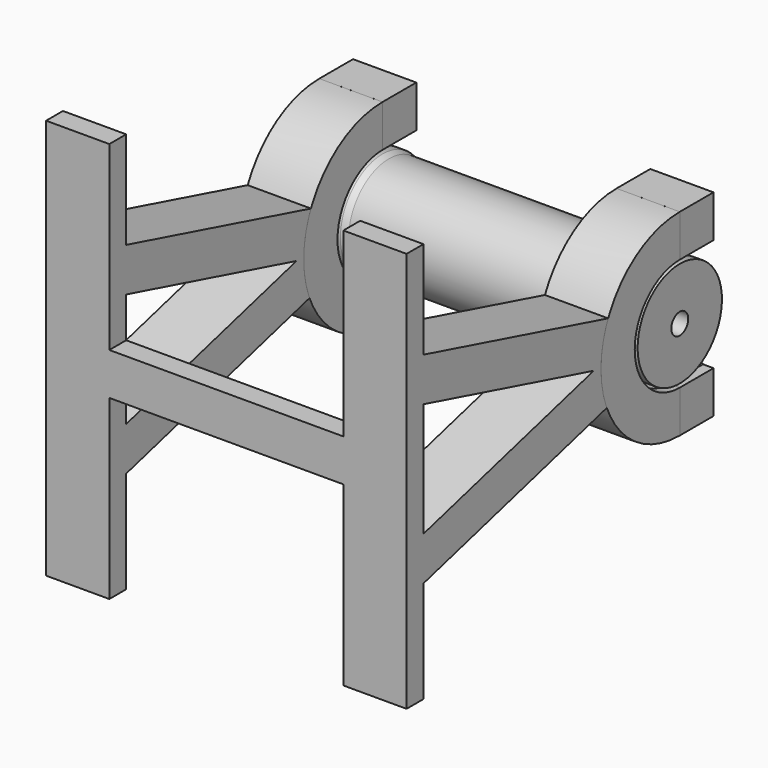
from build123d import *

# Parameters (mm, degrees)
BOX009_W                = 30
BOX009_H                = 10
BOX009_DEPTH            = 190
BOX004_W                = 30
BOX004_H                = 10
BOX004_DEPTH            = 190
BOX011_W                = 130
BOX011_H                = 10
BOX011_DEPTH            = 20
BOX018_W                = 40
BOX018_H                = 20
BOX018_DEPTH            = 220
BOX017_W                = 30
BOX017_H                = 140
BOX017_DEPTH            = 20
BOX017_PLACEMENT_ANGLE  = 15
BOX016_W                = 30
BOX016_H                = 140
BOX016_DEPTH            = 20
BOX016_PLACEMENT_ANGLE  = 15
PAD006_DEPTH            = 20
BODY011_PLACEMENT_ANGLE = 180
REVOLUTION004_ANGLE     = 180
PAD007_DEPTH            = 20
BOX015_W                = 40
BOX015_H                = 20
BOX015_DEPTH            = 220
BOX014_W                = 30
BOX014_H                = 140
BOX014_DEPTH            = 20
BOX014_PLACEMENT_ANGLE  = 15
BOX013_W                = 30
BOX013_H                = 140
BOX013_DEPTH            = 20
BOX013_PLACEMENT_ANGLE  = 15
PAD004_DEPTH            = 20
BODY008_PLACEMENT_ANGLE = 180
REVOLUTION003_ANGLE     = 180
PAD005_DEPTH            = 20


with BuildPart() as inner:
    # Sketch → Revolution (revolve)
    with BuildSketch(Plane.XZ):
        Polygon((-52.5, 24), (52.5, 24), (55.5, 25), (60.5, 25), (70.5, 15), (80.5, 25), (85.5, 25), (85.5, 5), (-85.5, 5), (-85.5, 25), (-80.5, 25), (-70.5, 15), (-60.5, 25), (-55.5, 25), align=None)
    revolve(axis=Axis((0, 0, 0), (1, 0, 0)))


with BuildPart() as cube009:
    # Box009 → Box009 (new body)
    with BuildSketch(Plane(origin=(55.5, -173, -95), x_dir=(1, 0, 0), z_dir=(0, 0, 1))):
        with Locations((15, 5)):
            Rectangle(BOX009_W, BOX009_H)
    extrude(amount=BOX009_DEPTH)


with BuildPart() as cube004:
    # Box004 → Box004 (new body)
    with BuildSketch(Plane(origin=(-85.5, -173, -95), x_dir=(1, 0, 0), z_dir=(0, 0, 1))):
        with Locations((15, 5)):
            Rectangle(BOX004_W, BOX004_H)
    extrude(amount=BOX004_DEPTH)


with BuildPart() as fusion:
    # Box011 → Box011 (new body)
    with BuildSketch(Plane(origin=(-63, -173, -11), x_dir=(1, 0, 0), z_dir=(0, 0, 1))):
        with Locations((65, 5)):
            Rectangle(BOX011_W, BOX011_H)
    extrude(amount=BOX011_DEPTH)

    # Fusion: union Cube009, Cube004
    add(cube009.part)
    add(cube004.part)


with BuildPart() as fusion_1:
    # Fusion placement: moved
    add(fusion.part.moved(Location((0, 11, 0))))


with BuildPart() as cube018:
    # Box018 → Box018 (new body)
    with BuildSketch(Plane(origin=(-94, -173, -109), x_dir=(1, 0, 0), z_dir=(0, 0, 1))):
        with Locations((20, 10)):
            Rectangle(BOX018_W, BOX018_H)
    extrude(amount=BOX018_DEPTH)


with BuildPart() as cube017:
    # Box017 → Box017 (new body)
    with BuildSketch(Plane.XY):
        with Locations((15, 70)):
            Rectangle(BOX017_W, BOX017_H)
    extrude(amount=BOX017_DEPTH)


with BuildPart() as cube017_1:
    # Box017 placement: moved
    add(cube017.part.moved(Location((-85.5, -167.262928, -50.786773))).rotate(Axis((-85.5, -167.262928, -50.786773), (1, 0, 0)), BOX017_PLACEMENT_ANGLE))


with BuildPart() as cube016:
    # Box016 → Box016 (new body)
    with BuildSketch(Plane.XY):
        with Locations((15, 70)):
            Rectangle(BOX016_W, BOX016_H)
    extrude(amount=BOX016_DEPTH)


with BuildPart() as cube016_1:
    # Box016 placement: moved
    add(cube016.part.moved(Location((-85.5, -171.292547, 33.2952))).rotate(Axis((-85.5, -171.292547, 33.2952), (-1, 0, 0)), BOX016_PLACEMENT_ANGLE))


with BuildPart() as body011:
    # Sketch011 → Pad006 (new body)
    with BuildSketch(Plane.XZ):
        Polygon((-160.153853, 40.532615), (-130.153853, 40.532615), (-130.153853, 20.532615), (-135.153853, 20.532615), (-145.153853, 10.532615), (-155.153853, 20.532615), (-160.153853, 20.532615), align=None)
    extrude(amount=PAD006_DEPTH)


with BuildPart() as body011_1:
    # Body011 placement: moved
    add(body011.part.moved(Location((-215.65, 20, -6.18))).rotate(Axis((-215.65, 20, -6.18), (0, 1, 0)), BODY011_PLACEMENT_ANGLE))


with BuildPart() as fusion017:
    # Sketch010 → Revolution004 (revolve)
    with BuildSketch(Plane.XZ):
        Polygon((-85.499998, 26.708255), (-80.499998, 26.708255), (-70.499998, 16.708255), (-60.499998, 26.708255), (-55.499998, 26.708255), (-55.499998, 46.708255), (-85.499998, 46.708255), align=None)
    revolve(axis=Axis((0, 0, 0), (1, 0, 0)), revolution_arc=REVOLUTION004_ANGLE)

    # Fusion017: union Body011
    add(body011_1.part)


with BuildPart() as cut002:
    # Sketch012 → Pad007 (new body)
    with BuildSketch(Plane.XZ):
        Polygon((-160.153853, 40.532615), (-130.153853, 40.532615), (-130.153853, 20.532615), (-135.153853, 20.532615), (-145.153853, 10.532615), (-155.153853, 20.532615), (-160.153853, 20.532615), align=None)
    extrude(amount=PAD007_DEPTH)


with BuildPart() as cut002_1:
    # Body012 placement: moved
    add(cut002.part.moved(Location((74.65, 20, 6.18))))

    # Fusion018: union Fusion017
    add(fusion017.part)

    # Fusion019: union Cube017, Cube016
    add(cube017_1.part)
    add(cube016_1.part)

    # Cut002: cut Cube018
    add(cube018.part, mode=Mode.SUBTRACT)


with BuildPart() as cut002_2:
    # Cut002 placement: moved
    add(cut002_1.part.moved(Location((141, 0, 0))))


with BuildPart() as cube015:
    # Box015 → Box015 (new body)
    with BuildSketch(Plane(origin=(-94, -173, -109), x_dir=(1, 0, 0), z_dir=(0, 0, 1))):
        with Locations((20, 10)):
            Rectangle(BOX015_W, BOX015_H)
    extrude(amount=BOX015_DEPTH)


with BuildPart() as cube014:
    # Box014 → Box014 (new body)
    with BuildSketch(Plane.XY):
        with Locations((15, 70)):
            Rectangle(BOX014_W, BOX014_H)
    extrude(amount=BOX014_DEPTH)


with BuildPart() as cube014_1:
    # Box014 placement: moved
    add(cube014.part.moved(Location((-85.5, -167.262928, -50.786773))).rotate(Axis((-85.5, -167.262928, -50.786773), (1, 0, 0)), BOX014_PLACEMENT_ANGLE))


with BuildPart() as cube013:
    # Box013 → Box013 (new body)
    with BuildSketch(Plane.XY):
        with Locations((15, 70)):
            Rectangle(BOX013_W, BOX013_H)
    extrude(amount=BOX013_DEPTH)


with BuildPart() as cube013_1:
    # Box013 placement: moved
    add(cube013.part.moved(Location((-85.5, -171.292547, 33.2952))).rotate(Axis((-85.5, -171.292547, 33.2952), (-1, 0, 0)), BOX013_PLACEMENT_ANGLE))


with BuildPart() as body008:
    # Sketch008 → Pad004 (new body)
    with BuildSketch(Plane.XZ):
        Polygon((-160.153853, 40.532615), (-130.153853, 40.532615), (-130.153853, 20.532615), (-135.153853, 20.532615), (-145.153853, 10.532615), (-155.153853, 20.532615), (-160.153853, 20.532615), align=None)
    extrude(amount=PAD004_DEPTH)


with BuildPart() as body008_1:
    # Body008 placement: moved
    add(body008.part.moved(Location((-215.65, 20, -6.18))).rotate(Axis((-215.65, 20, -6.18), (0, 1, 0)), BODY008_PLACEMENT_ANGLE))


with BuildPart() as fusion010:
    # Sketch007 → Revolution003 (revolve)
    with BuildSketch(Plane.XZ):
        Polygon((-85.499998, 26.708255), (-80.499998, 26.708255), (-70.499998, 16.708255), (-60.499998, 26.708255), (-55.499998, 26.708255), (-55.499998, 46.708255), (-85.499998, 46.708255), align=None)
    revolve(axis=Axis((0, 0, 0), (1, 0, 0)), revolution_arc=REVOLUTION003_ANGLE)

    # Fusion010: union Body008
    add(body008_1.part)


with BuildPart() as fusion020:
    # Sketch009 → Pad005 (new body)
    with BuildSketch(Plane.XZ):
        Polygon((-160.153853, 40.532615), (-130.153853, 40.532615), (-130.153853, 20.532615), (-135.153853, 20.532615), (-145.153853, 10.532615), (-155.153853, 20.532615), (-160.153853, 20.532615), align=None)
    extrude(amount=PAD005_DEPTH)


with BuildPart() as fusion020_1:
    # Body009 placement: moved
    add(fusion020.part.moved(Location((74.65, 20, 6.18))))

    # Fusion011: union Fusion010
    add(fusion010.part)

    # Fusion016: union Cube014, Cube013
    add(cube014_1.part)
    add(cube013_1.part)

    # Cut001: cut Cube015
    add(cube015.part, mode=Mode.SUBTRACT)

    # Fusion020: union Fusion, Cut002
    add(fusion_1.part)
    add(cut002_2.part)


solid = Compound([inner.part, fusion020_1.part])
